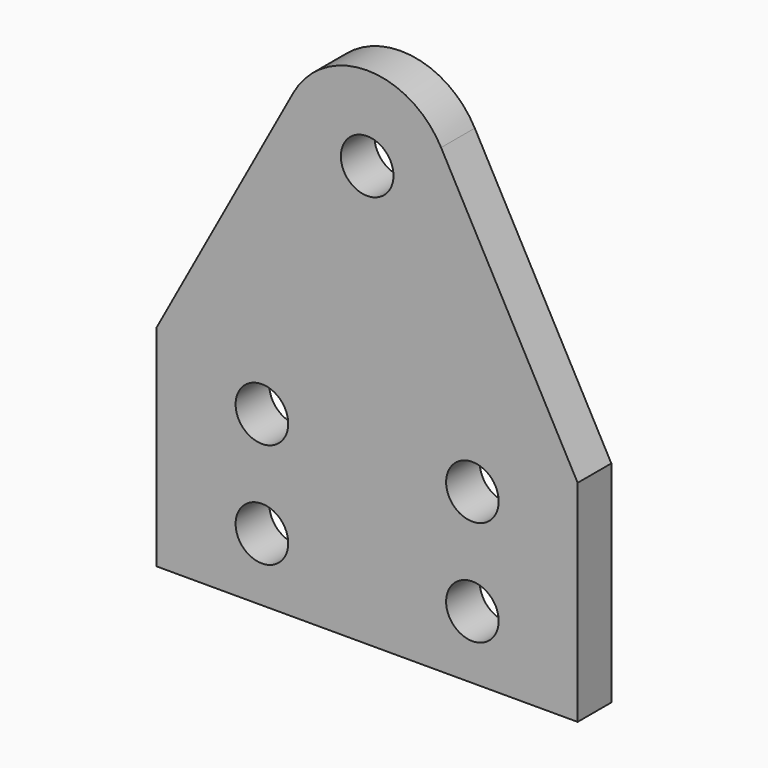
from build123d import *

# Parameters (mm, degrees)
F0_R     = 6.25
F1_DEPTH = 10


with BuildPart() as f1:
    # F0 (on Front) → F1 (new body)
    with BuildSketch(Plane.XZ):
        with BuildLine():
            Line((50, -58.640056), (17.56466, 0.924604))
            ThreePointArc((17.56466, 0.924604), (0, 11.359944), (-17.56466, 0.924604))
            Line((-17.56466, 0.924604), (-50, -58.640056))
            Line((-50, -58.640056), (-50, -108.640056))
            Line((-50, -108.640056), (0, -108.640056))
            Line((0, -108.640056), (50, -108.640056))
            Line((50, -108.640056), (50, -58.640056))
        make_face()
        with Locations((-25, -93.640056)):
            Circle(F0_R, mode=Mode.SUBTRACT)
        with Locations((-25, -68.640056)):
            Circle(F0_R, mode=Mode.SUBTRACT)
        with Locations((25, -93.640056)):
            Circle(F0_R, mode=Mode.SUBTRACT)
        with Locations((25, -68.640056)):
            Circle(F0_R, mode=Mode.SUBTRACT)
        with Locations((0, -8.640056)):
            Circle(F0_R, mode=Mode.SUBTRACT)
    extrude(amount=F1_DEPTH)


solid = f1.part
